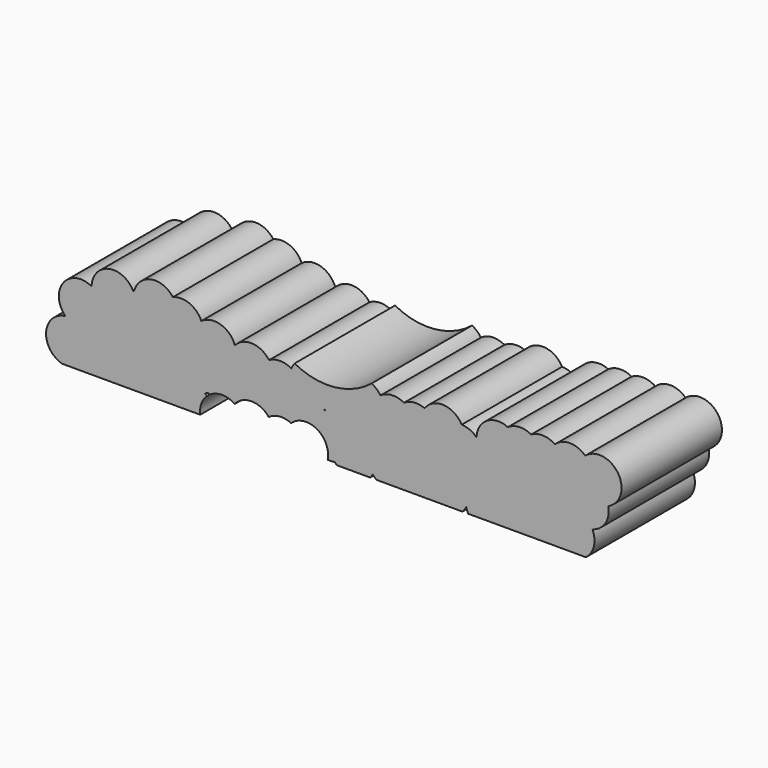
from build123d import *

# Parameters (mm, degrees)
F1_DEPTH = 20


with BuildPart() as f1:
    # F0 (on Front) → F1 (new body)
    with BuildSketch(Plane.XZ):
        with BuildLine():
            ThreePointArc((-5.940089, 16.035642), (-9.847151, 17.890695), (-12.573514, 14.533122))
            ThreePointArc((-12.573514, 14.533122), (-17.076209, 13.600936), (-16.769733, 9.012985))
            ThreePointArc((-16.769733, 9.012985), (-19.818074, 5.778568), (-17.235455, 2.161398))
            Line((-17.235455, 2.161398), (-15.416807, 2.161398))
            ThreePointArc((-15.416807, 2.161398), (-15.341632, 2.182526), (-15.266946, 2.205325))
            ThreePointArc((-15.266946, 2.205325), (-15.257997, 2.183331), (-15.248898, 2.161398))
            Line((-15.248898, 2.161398), (0.599075, 2.161398))
            Line((0.599075, 2.161398), (1.466817, 2.161398))
            Line((1.466817, 2.161398), (2.837026, 2.161398))
            Line((2.837026, 2.161398), (4.730743, 2.161398))
            ThreePointArc((4.730743, 2.161398), (4.926621, 3.811509), (5.861452, 5.185307))
            ThreePointArc((5.861452, 5.185307), (5.64524, 5.301362), (5.421428, 5.401982))
            ThreePointArc((5.421428, 5.401982), (5.727707, 5.506425), (6.023032, 5.638709))
            ThreePointArc((6.023032, 5.638709), (6.081628, 5.525636), (6.1443, 5.41477))
            ThreePointArc((6.1443, 5.41477), (8.177085, 6.085562), (10.220286, 5.447202))
            ThreePointArc((10.220286, 5.447202), (12.947827, 6.708886), (15.648336, 5.390333))
            ThreePointArc((15.648336, 5.390333), (17.392275, 6.035167), (19.220387, 5.695841))
            ThreePointArc((19.220387, 5.695841), (23.005934, 6.355332), (25.115261, 3.143474))
            ThreePointArc((25.115261, 3.143474), (25.098006, 2.796362), (25.046411, 2.452672))
            ThreePointArc((25.046411, 2.452672), (25.622278, 2.433805), (26.193437, 2.509672))
            ThreePointArc((26.193437, 2.509672), (26.316013, 2.331581), (26.449351, 2.161398))
            Line((26.449351, 2.161398), (31.823543, 2.161398))
            ThreePointArc((31.823543, 2.161398), (32.032567, 2.438734), (32.213077, 2.735419))
            ThreePointArc((32.213077, 2.735419), (32.508273, 2.429381), (32.838403, 2.161398))
            Line((32.838403, 2.161398), (36.281702, 2.161398))
            Line((36.281702, 2.161398), (36.911824, 2.161398))
            Line((36.911824, 2.161398), (46.510172, 2.161398))
            ThreePointArc((46.510172, 2.161398), (46.844985, 2.554338), (47.118356, 2.992253))
            ThreePointArc((47.118356, 2.992253), (47.25325, 2.566504), (47.441262, 2.161398))
            Line((47.441262, 2.161398), (53.58981, 2.161398))
            ThreePointArc((53.58981, 2.161398), (53.609488, 2.198076), (53.628728, 2.234985))
            ThreePointArc((53.628728, 2.234985), (53.6808, 2.197712), (53.733544, 2.161398))
            Line((53.733544, 2.161398), (57.650192, 2.161398))
            ThreePointArc((57.650192, 2.161398), (57.711534, 2.203767), (57.771959, 2.247433))
            ThreePointArc((57.771959, 2.247433), (57.830262, 2.203804), (57.889461, 2.161398))
            Line((57.889461, 2.161398), (61.906458, 2.161398))
            ThreePointArc((61.906458, 2.161398), (61.914706, 2.167195), (61.922937, 2.173016))
            ThreePointArc((61.922937, 2.173016), (61.930484, 2.167197), (61.938047, 2.161398))
            Line((61.938047, 2.161398), (66.189721, 2.161398))
            ThreePointArc((66.189721, 2.161398), (67.462375, 4.105018), (67.237666, 6.417336))
            ThreePointArc((67.237666, 6.417336), (69.30512, 7.959865), (69.754252, 10.499952))
            ThreePointArc((69.754252, 10.499952), (71.331241, 15.573923), (66.076262, 16.359591))
            ThreePointArc((66.076262, 16.359591), (63.666049, 17.343961), (61.242942, 16.391769))
            ThreePointArc((61.242942, 16.391769), (59.374481, 17.015844), (57.464914, 16.531934))
            ThreePointArc((57.464914, 16.531934), (55.581553, 16.979922), (53.748163, 16.358292))
            ThreePointArc((53.748163, 16.358292), (50.433059, 16.178923), (48.759147, 13.31185))
            ThreePointArc((48.759147, 13.31185), (47.671864, 14.037602), (46.394121, 14.313776))
            ThreePointArc((46.394121, 14.313776), (43.551728, 16.132472), (40.494129, 14.704908))
            ThreePointArc((40.494129, 14.704908), (38.808881, 14.966861), (37.19991, 14.401271))
            ThreePointArc((37.19991, 14.401271), (35.298822, 14.847046), (33.454766, 14.204929))
            ThreePointArc((33.454766, 14.204929), (32.831306, 14.915761), (32.040328, 15.433774))
            ThreePointArc((32.040328, 15.433774), (26.086101, 12.988903), (19.774679, 14.252293))
            ThreePointArc((19.774679, 14.252293), (19.47591, 13.831908), (19.242162, 13.372182))
            ThreePointArc((19.242162, 13.372182), (17.473764, 13.860622), (15.70123, 13.387412))
            ThreePointArc((15.70123, 13.387412), (13.055743, 14.849641), (10.257811, 13.705836))
            ThreePointArc((10.257811, 13.705836), (7.997811, 15.876464), (4.905806, 15.367808))
            ThreePointArc((4.905806, 15.367808), (3.027117, 17.230013), (0.381927, 17.24577))
            ThreePointArc((0.381927, 17.24577), (-3.077319, 18.604807), (-5.809141, 16.084784))
            ThreePointArc((-5.809141, 16.084784), (-5.874893, 16.060954), (-5.940089, 16.035642))
        make_face()
        with BuildLine():
            ThreePointArc((23.254268, 8.608952), (23.215618, 8.600301), (23.176873, 8.592087))
            ThreePointArc((23.176873, 8.592087), (23.203012, 8.614169), (23.229366, 8.635994))
            ThreePointArc((23.229366, 8.635994), (23.241782, 8.62244), (23.254268, 8.608952))
        make_face(mode=Mode.SUBTRACT)
        with BuildLine():
            ThreePointArc((24.700602, 9.348636), (24.721351, 9.353109), (24.742126, 9.357456))
            ThreePointArc((24.742126, 9.357456), (24.715987, 9.335374), (24.689633, 9.313549))
            ThreePointArc((24.689633, 9.313549), (24.630678, 9.266264), (24.570715, 9.220262))
            ThreePointArc((24.570715, 9.220262), (24.549477, 9.263361), (24.52765, 9.306164))
            ThreePointArc((24.52765, 9.306164), (24.613856, 9.3285), (24.700602, 9.348636))
        make_face(mode=Mode.SUBTRACT)
    extrude(amount=F1_DEPTH)


solid = f1.part
